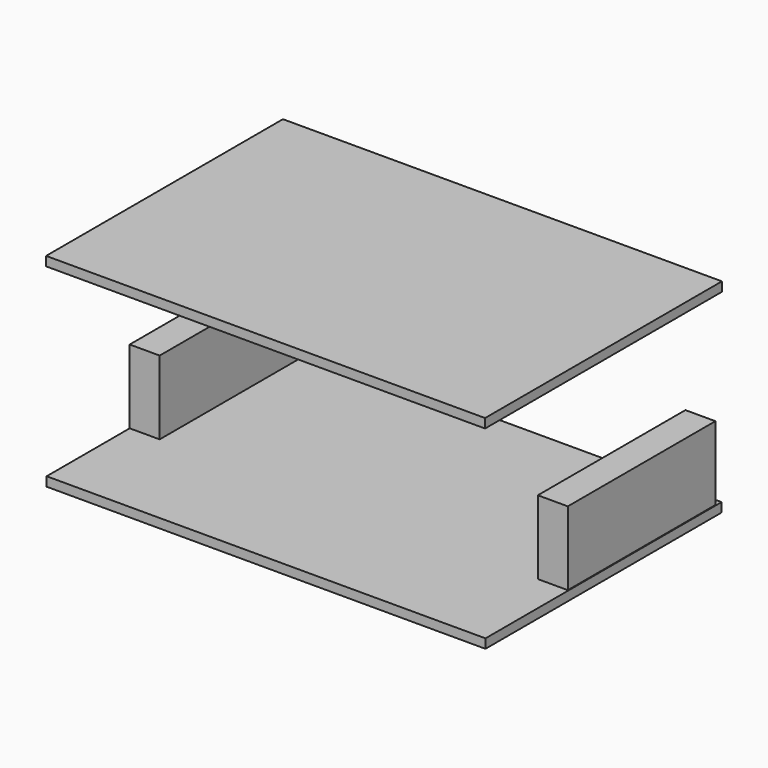
from build123d import *

# Parameters (mm, degrees)
F0_W     = 82.55
F0_H     = 508
F1_DEPTH = 203.2
F2_DEPTH = 25.4
F4_W     = 1208.918184042
F4_H     = 815.3168857098
F5_DEPTH = 25.4


with BuildPart() as f1:
    # F0 (on Top) → F1 (new body)
    with BuildSketch(Plane.XY):
        with Locations((-88.0237461865, 223.0930265933)):
            Rectangle(F0_W, F0_H)
    extrude(amount=F1_DEPTH)


with BuildPart() as f1b:
    # F0 (on Top) → F1, piece 2 (new body)
    with BuildSketch(Plane.XY):
        with Locations((1035.9262538135, 223.0930265933)):
            Rectangle(F0_W, F0_H)
    extrude(amount=F1_DEPTH)


with BuildPart() as f2:
    # F0 (on Top) → F2 (new body)
    with BuildSketch(Plane.XY):
        Polygon((-129.2987461865, 496.0216650993), (-129.2987461865, 477.0930265933), (-46.7487461865, 477.0930265933), (-46.7487461865, -30.9069734067), (-129.2987461865, -30.9069734067), (-129.2987461865, -316.7783349007), (1079.1771411896, -316.7783349007), (1079.1771411896, 496.0216650993), align=None)
        with Locations((1035.9262538135, 223.0930265933)):
            Rectangle(F0_W, F0_H, mode=Mode.SUBTRACT)
        with Locations((-88.0237461865, 223.0930265933)):
            Rectangle(F0_W, F0_H)
    extrude(amount=-F2_DEPTH)


with BuildPart() as f5:
    # F4 (on offset) → F5 (new body)
    with BuildSketch(Plane.XY.offset(508)):
        with Locations((473.1820374727, 91.3789123297)):
            Rectangle(F4_W, F4_H)
    extrude(amount=F5_DEPTH)


solid = Compound([f1.part, f1b.part, f2.part, f5.part])
